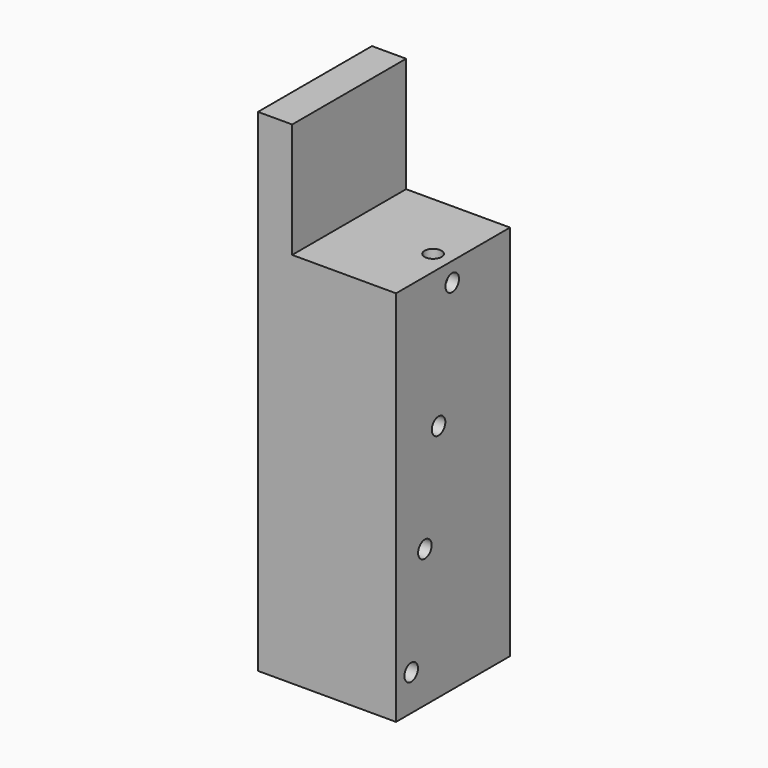
from build123d import *

# Parameters (mm, degrees)
F1_DEPTH = 26.05
F2_R     = 1.55
F3_DEPTH = 5
F4_R     = 1.55
F5_DEPTH = 3
F6_DEPTH = 2


with BuildPart() as f1:
    # F0 (on Front) → F1 (new body)
    with BuildSketch(Plane.XZ):
        Polygon((0, 90), (0, 0), (25.25, 0), (25.25, 69), (6.25, 69), (6.25, 90), align=None)
    extrude(amount=-F1_DEPTH)

    # F2 (on face) → F3 (cut)
    with BuildSketch(Plane.YZ.offset(25.25)):
        with Locations((9.715, 43.7)):
            Circle(F2_R)
        with Locations((6.59, 25.15)):
            Circle(F2_R)
        with Locations((3.465, 6.6)):
            Circle(F2_R)
    extrude(amount=-F3_DEPTH, mode=Mode.SUBTRACT)

    # F4 (on face) → F5 (cut)
    with BuildSketch(Plane.XY.offset(69)):
        with Locations((21.75, 12.84)):
            Circle(F4_R)
    extrude(amount=-F5_DEPTH, mode=Mode.SUBTRACT)

    # F2 (on face) → F6 (cut)
    with BuildSketch(Plane.YZ.offset(25.25)):
        with Locations((12.84, 65.5)):
            Circle(F2_R)
    extrude(amount=-F6_DEPTH, mode=Mode.SUBTRACT)


solid = f1.part
